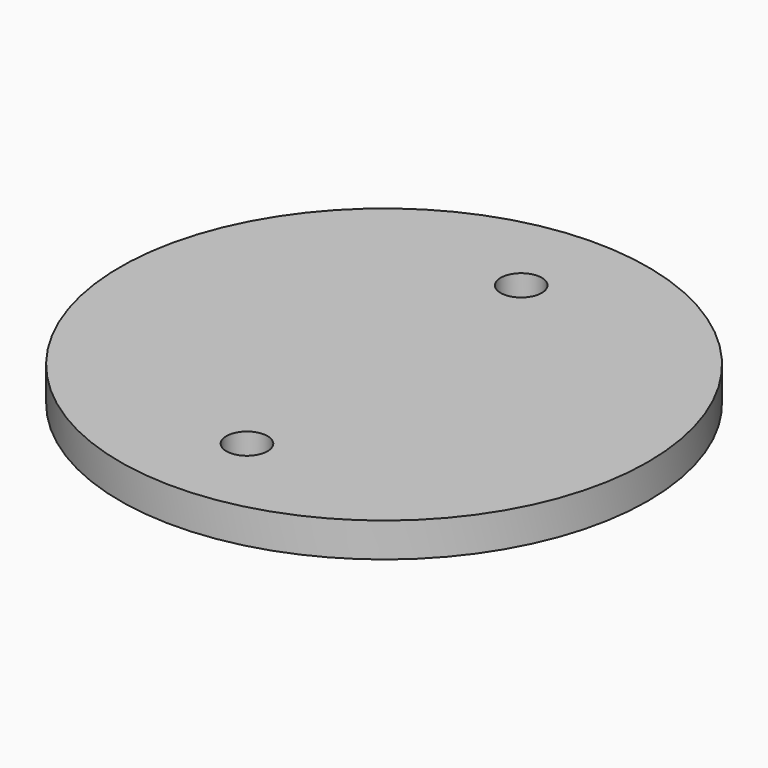
from build123d import *

# Parameters (mm, degrees)
SKETCH_R           = 77
PAD_DEPTH          = 10
SKETCH001_R        = 6
POCKET_DEPTH       = 446.037696
POLARPATTERN_COUNT = 2


with BuildPart() as part:
    # Sketch → Pad (new body)
    with BuildSketch(Plane.XY):
        Circle(SKETCH_R)
    extrude(amount=PAD_DEPTH)

    # Sketch001 (on Face3 of Pad) → Pocket (cut, through all)
    with BuildSketch(Plane.XY.offset(10)):
        with Locations((0, 50)):
            Circle(SKETCH001_R)
    pocket = extrude(amount=-POCKET_DEPTH, mode=Mode.SUBTRACT)

    # PolarPattern: Pocket ×2 about axis
    polarpattern_axis = Axis((0, 0, 10), (0, 0, 1))
    for i in range(1, POLARPATTERN_COUNT):
        add(pocket.rotate(polarpattern_axis, i * 360 / POLARPATTERN_COUNT), mode=Mode.SUBTRACT)


solid = part.part
